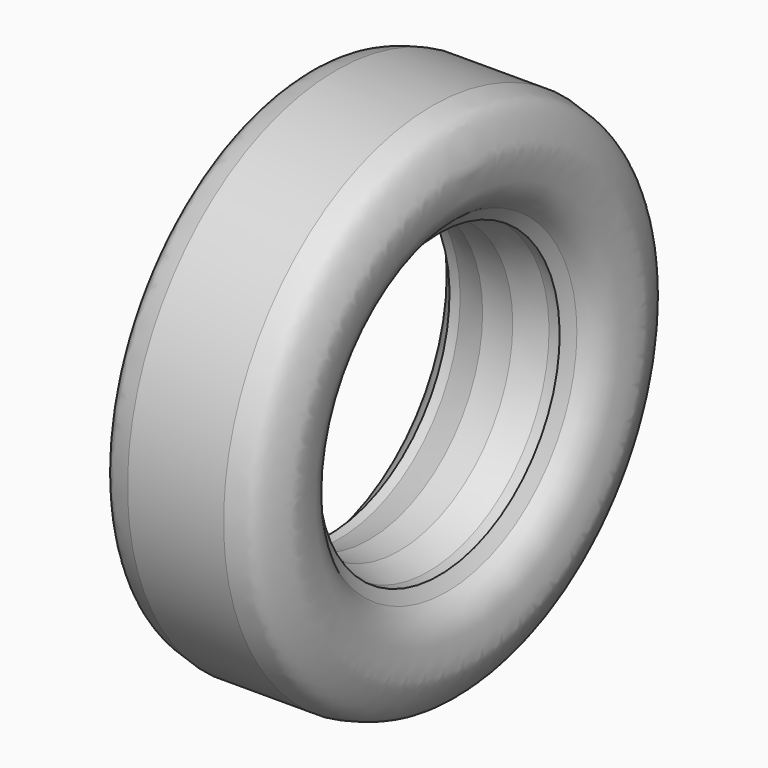
from build123d import *


with BuildPart() as f1:
    # F0 (on Front) → F1 (revolve)
    with BuildSketch(Plane.XZ):
        with BuildLine():
            Line((17.7599439915, -10.1287140796), (52.4473251715, 0))
            Line((52.4473251715, 0), (64.9347876875, 0))
            Line((64.9347876875, 0), (74.0922592328, 14.0137050555))
            add(Edge.make_bspline(
                [(74.0922592328, 14.0137050555), (77.460857379, 15.8831982669), (85.1861810436, 20.1705722785), (98.1224992698, 37.1168542101), (100.7803224981, 60.881569733), (104.9974342753, 80.898405937), (89.7499416824, 116.8042871993), (78.9999632091, 124.444184055), (64.7568817465, 127.6655294416), (56.6458255053, 129.5)],
                knots=[0, 0, 0, 0, 0.1099041468, 0.2520470146, 0.4032876545, 0.5482639847, 0.7382391755, 0.8509341693, 1, 1, 1, 1], degree=3))
            Line((56.6458255053, 129.5), (0, 129.5))
            Line((0, 129.5), (-56.6458255053, 129.5))
            add(Edge.make_bspline(
                [(-74.0922592328, 14.0137050555), (-77.460857379, 15.8831982669), (-85.1861810436, 20.1705722785), (-98.1224992698, 37.1168542101), (-100.7803224981, 60.881569733), (-104.9974342753, 80.898405937), (-89.7499416824, 116.8042871993), (-78.9999632091, 124.444184055), (-64.7568817465, 127.6655294416), (-56.6458255053, 129.5)],
                knots=[0, 0, 0, 0, 0.1099041468, 0.2520470146, 0.4032876545, 0.5482639847, 0.7382391755, 0.8509341693, 1, 1, 1, 1], degree=3))
            Line((-74.0922592328, 14.0137050555), (-64.9347876875, 0))
            Line((-64.9347876875, 0), (-52.4473251715, 0))
            Line((-52.4473251715, 0), (-17.7599439915, -10.1287140796))
            Line((-17.7599439915, -10.1287140796), (0, -10.1287140796))
            Line((0, -10.1287140796), (17.7599439915, -10.1287140796))
        make_face()
    revolve(axis=Axis((-59.1031610966, 0, -177.8), (-1, 0, 0)))


solid = f1.part
